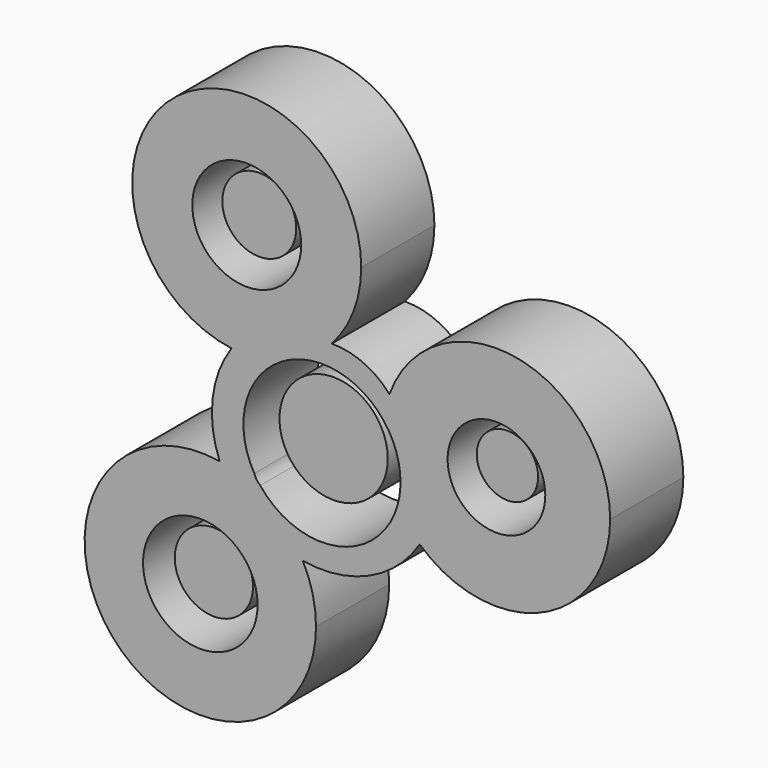
from build123d import *

# Parameters (mm, degrees)
F0_R     = 7.557016
F0_R_2   = 7.953032
F0_R_3   = 6.780991
F1_DEPTH = 12.7
F2_R     = 7.518734
F3_DEPTH = 10.16
F2_R_2   = 4.260812
F2_R_3   = 5.131462
F2_R_4   = 5.432559
F4_DEPTH = 10.16


with BuildPart() as f1:
    # F0 (on Front) → F1 (new body)
    with BuildSketch(Plane.XZ):
        with BuildLine():
            ThreePointArc((-55.856584, 30.347463), (-52.817168, 35.29487), (-51.75689, 41.003697))
            ThreePointArc((-51.75689, 41.003697), (-78.124945, 52.969558), (-69.768216, 25.245539))
            ThreePointArc((-69.768216, 25.245539), (-66.315426, 25.161223), (-62.925898, 25.824521))
            ThreePointArc((-62.925898, 25.824521), (-61.493693, 26.565405), (-59.967896, 27.087001))
            ThreePointArc((-59.967896, 27.087001), (-57.776804, 28.546452), (-55.856584, 30.347463))
        make_face()
        with Locations((-67.655981, 41.003697)):
            Circle(F0_R, mode=Mode.SUBTRACT)
        with BuildLine():
            ThreePointArc((-62.925898, 25.824521), (-66.315426, 25.161223), (-69.768216, 25.245539))
            ThreePointArc((-69.768216, 25.245539), (-72.394039, 18.277527), (-71.414901, 10.895833))
            ThreePointArc((-71.414901, 10.895833), (-64.654926, 8.052259), (-59.863201, 2.500452))
            ThreePointArc((-59.863201, 2.500452), (-50.642847, 3.680407), (-43.639516, 9.792735))
            ThreePointArc((-43.639516, 9.792735), (-45.320757, 11.591286), (-46.701911, 13.629365))
            ThreePointArc((-46.701911, 13.629365), (-55.063816, 5.843974), (-65.784552, 9.793604))
            ThreePointArc((-65.784552, 9.793604), (-66.282826, 10.328304), (-66.600836, 10.98637))
            ThreePointArc((-66.600836, 10.98637), (-67.798368, 19.157118), (-62.925898, 25.824521))
        make_face()
        with BuildLine():
            ThreePointArc((-47.836871, 26.78429), (-51.460277, 29.43567), (-55.856584, 30.347463))
            ThreePointArc((-55.856584, 30.347463), (-57.776804, 28.546452), (-59.967896, 27.087001))
            ThreePointArc((-59.967896, 27.087001), (-53.750018, 26.876335), (-48.659188, 23.300048))
            ThreePointArc((-48.659188, 23.300048), (-48.347117, 25.065554), (-47.836871, 26.78429))
        make_face()
        with BuildLine():
            ThreePointArc((-59.863201, 2.500452), (-64.654926, 8.052259), (-71.414901, 10.895833))
            ThreePointArc((-71.414901, 10.895833), (-86.371319, -15.309934), (-58.034726, -4.942962))
            ThreePointArc((-58.034726, -4.942962), (-58.49854, -1.110608), (-59.863201, 2.500452))
        make_face()
        with Locations((-74.099407, -4.942962)):
            Circle(F0_R_2, mode=Mode.SUBTRACT)
        with BuildLine():
            ThreePointArc((-17.196412, 21.439422), (-30.270027, 36.990992), (-47.836871, 26.78429))
            ThreePointArc((-47.836871, 26.78429), (-48.347117, 25.065554), (-48.659188, 23.300048))
            ThreePointArc((-48.659188, 23.300048), (-46.912242, 20.116287), (-46.307575, 16.53543))
            ThreePointArc((-46.307575, 16.53543), (-46.406609, 15.069081), (-46.701911, 13.629365))
            ThreePointArc((-46.701911, 13.629365), (-45.320757, 11.591286), (-43.639516, 9.792735))
            ThreePointArc((-43.639516, 9.792735), (-26.619657, 6.99225), (-17.196412, 21.439422))
        make_face()
        with Locations((-32.982816, 21.439422)):
            Circle(F0_R_3, mode=Mode.SUBTRACT)
    extrude(amount=F1_DEPTH)


with BuildPart() as f3:
    # F2 (on Front) → F3 (new body)
    with BuildSketch(Plane.XZ):
        with Locations((-57.62402, 17.128717)):
            Circle(F2_R)
    extrude(amount=F3_DEPTH)

    # F2 (on Front) → F4 (join)
    with BuildSketch(Plane.XZ):
        with Locations((-57.62402, 17.128717)):
            Circle(F2_R)
        with Locations((-33.492241, 21.687124)):
            Circle(F2_R_2)
        with Locations((-67.94706, 41.127399)):
            Circle(F2_R_3)
        with Locations((-74.248135, -4.590761)):
            Circle(F2_R_4)
    extrude(amount=F4_DEPTH)


solid = Compound([f1.part, f3.part])
